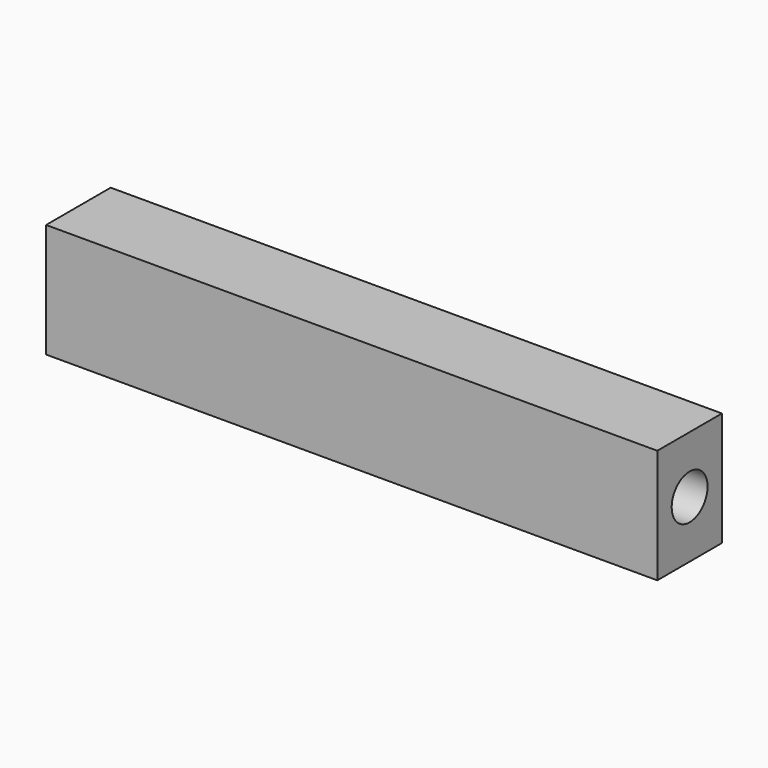
from build123d import *

# Parameters (mm, degrees)
F0_W     = 45.0391359627
F0_H     = 63.62747401
F1_DEPTH = 170.4394621775
F3_D     = 25
F3_DEPTH = 50
F3_TIP   = 7.5107577378
F5_D     = 20


with BuildPart() as f1:
    # F0 (on Right) → F1 (new body, symmetric)
    with BuildSketch(Plane.YZ):
        Rectangle(F0_W, F0_H)
    extrude(amount=F1_DEPTH, both=True)

    # F3
    with Locations(Plane.YZ.offset(170.4394621775)):
        with Locations((0, 0)):
            Hole(F3_D / 2, depth=F3_DEPTH)
            with Locations((0, 0, -(F3_DEPTH + F3_TIP / 2))):  # 118° drill point
                Cone(0, F3_D / 2, F3_TIP, mode=Mode.SUBTRACT)

    # F5 (through all)
    with Locations(Plane.YZ.offset(170.4394621775)):
        with Locations((0.0467002392, 0.2690460533)):
            Hole(F5_D / 2)


solid = f1.part
